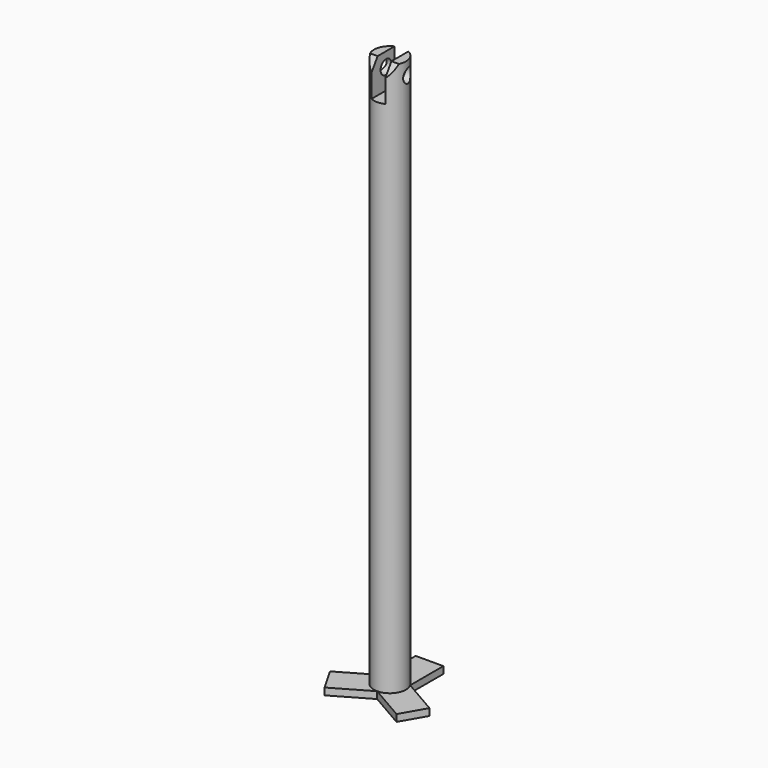
from build123d import *

# Parameters (mm, degrees)
F1_DEPTH      = 12.7
F2_R          = 29.3293936748
F3_DEPTH      = 1016
F4_W          = 25.4
F4_H          = 63.5
F5_DEPTH      = 63.5
F7_DEPTH      = 25.4
F7_DEPTH_BACK = 127
F8_R          = 12.7
F9_DEPTH      = 25.4
F9_DEPTH_BACK = 127


with BuildPart() as f1:
    # F0 (on Top) → F1 (new body)
    with BuildSketch(Plane.XY):
        Polygon((-25.4, 105.5293925285), (-25.4, 29.3293925285), (-91.3911340489, -8.7706104496), (-65.9911320635, -52.7646998156), (1.9854e-06, -14.6646968374), (65.9911394732, -52.7646938593), (91.3911374878, -8.7706022007), (25.4, 29.3293948211), (25.4, 105.5293925285), align=None)
    extrude(amount=-F1_DEPTH)

    # F2 (on face) → F3 (join)
    with BuildSketch(Plane.XY):
        with Locations((6.618e-07, 14.6646968374)):
            Circle(F2_R)
    extrude(amount=F3_DEPTH)

    # F4 (on face) → F5 (cut)
    with BuildSketch(Plane.XY.offset(1016)):
        with Locations((6.618e-07, 14.6646968374)):
            Rectangle(F4_W, F4_H)
    extrude(amount=-F5_DEPTH, mode=Mode.SUBTRACT)

    # F6 (on face) → F7 (cut, two sides)
    with BuildSketch(Plane.YZ.offset(-12.6999993382)) as f7_sk:
        Polygon((2.1613299569, 1016), (-11.7724613558, 1016), (-11.7724613558, 994.7630167007), align=None)
    extrude(amount=-F7_DEPTH, mode=Mode.SUBTRACT)
    extrude(f7_sk.sketch, amount=F7_DEPTH_BACK, mode=Mode.SUBTRACT)

    # F8 (on face) → F9 (cut, two sides)
    with BuildSketch(Plane.YZ.offset(-12.6999993382)) as f9_sk:
        with Locations((21.6315924938, 990.6)):
            Circle(F8_R)
    extrude(amount=-F9_DEPTH, mode=Mode.SUBTRACT)
    extrude(f9_sk.sketch, amount=F9_DEPTH_BACK, mode=Mode.SUBTRACT)


solid = f1.part
